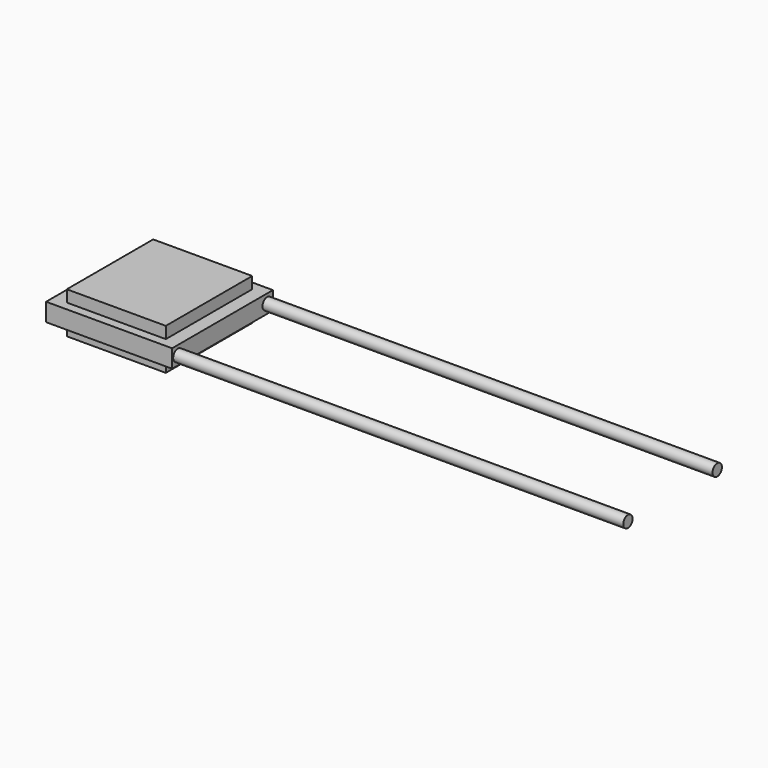
from build123d import *

# Parameters (mm, degrees)
F0_W     = 11
F0_H     = 12
F1_DEPTH = 1.3
F2_W     = 14
F2_H     = 14
F3_DEPTH = 2
F4_W     = 11
F4_H     = 12
F5_DEPTH = 1.3
F6_R     = 0.65
F7_DEPTH = 50


with BuildPart() as f1:
    # F0 (on Top) → F1 (new body)
    with BuildSketch(Plane.XY):
        Rectangle(F0_W, F0_H)
    extrude(amount=-F1_DEPTH)

    # F2 (on face) → F3 (join)
    with BuildSketch(Plane.XY):
        Rectangle(F2_W, F2_H)
    extrude(amount=F3_DEPTH)

    # F4 (on face) → F5 (join)
    with BuildSketch(Plane.XY.offset(2)):
        Rectangle(F4_W, F4_H)
    extrude(amount=F5_DEPTH)


with BuildPart() as f7:
    # F6 (on face) → F7 (new body)
    with BuildSketch(Plane.YZ.offset(7)):
        with Locations((-6.2, 1)):
            Circle(F6_R)
        with Locations((6.2, 1)):
            Circle(F6_R)
    extrude(amount=F7_DEPTH)


solid = Compound([f1.part, f7.part])
